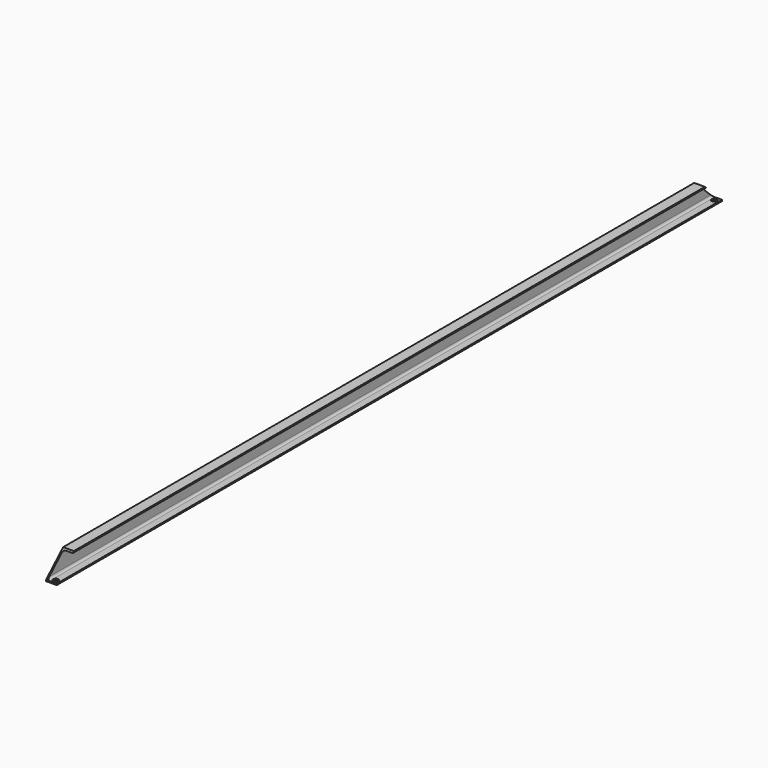
from build123d import *

# Parameters (mm, degrees)
F1_DEPTH = 1950
F3_DEPTH = 25
F5_DEPTH = 25
F6_R     = 6
F7_DEPTH = 3.001
F8_R     = 6.25
F9_DEPTH = 3.001


with BuildPart() as f1:
    # F0 (on Front) → F1 (new body)
    with BuildSketch(Plane.XZ):
        with BuildLine():
            Line((0, 0), (25, 0))
            Line((25, 0), (25, 3))
            Line((25, 3), (8, 3))
            ThreePointArc((8, 3), (4.464466, 4.464466), (3, 8))
            Line((3, 8), (3, 42))
            ThreePointArc((3, 42), (4.464466, 45.535534), (8, 47))
            Line((8, 47), (25, 47))
            Line((25, 47), (25, 50))
            Line((25, 50), (0, 50))
            Line((0, 50), (0, 0))
        make_face()
    extrude(amount=-F1_DEPTH)

    # F2 (on Right) → F3 (cut)
    with BuildSketch(Plane.YZ):
        Polygon((0, 49), (0, 3), (50, 50), (0, 50), align=None)
    extrude(amount=F3_DEPTH, mode=Mode.SUBTRACT)

    # F4 (on face) → F5 (cut)
    with BuildSketch(Plane(origin=(0, 0, 0), x_dir=(0, -1, 0), z_dir=(-1, 0, 0))):
        Polygon((-1950, 3), (-1900, 50), (-1950, 50), align=None)
    extrude(amount=-F5_DEPTH, mode=Mode.SUBTRACT)

    # F6 (on face) → F7 (cut, through all)
    with BuildSketch(Plane.XY.offset(3)):
        with Locations((15, 10)):
            Circle(F6_R)
    extrude(amount=-F7_DEPTH, mode=Mode.SUBTRACT)

    # F8 (on face) → F9 (cut, through all)
    with BuildSketch(Plane.XY.offset(3)):
        with Locations((15, 1940)):
            Circle(F8_R)
    extrude(amount=-F9_DEPTH, mode=Mode.SUBTRACT)


solid = f1.part
